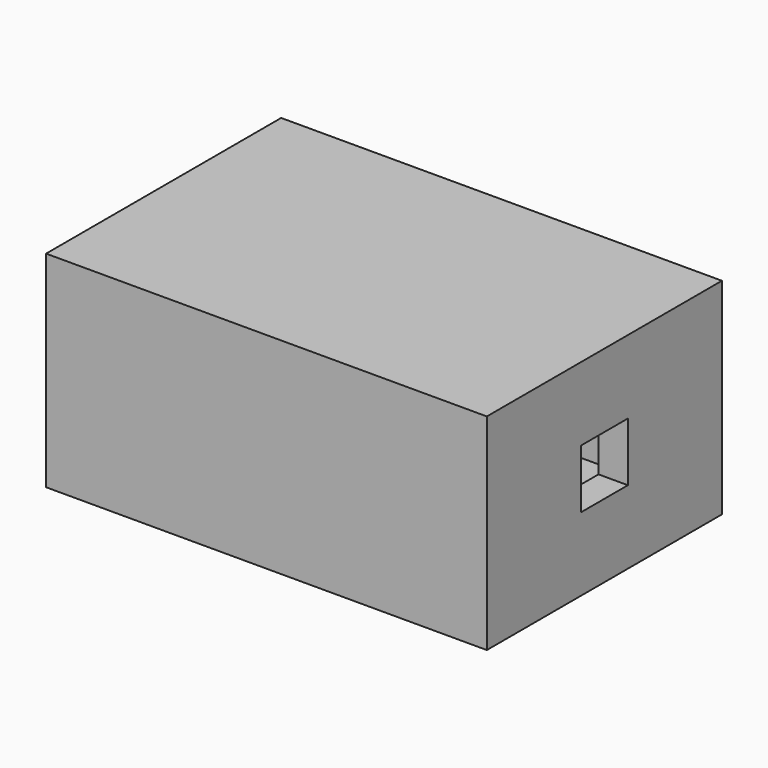
from build123d import *

# Parameters (mm, degrees)
SKETCH133_W     = 15
SKETCH133_H     = 10
PAD068_DEPTH    = 7
SKETCH134_W     = 9.2
SKETCH134_H     = 6.2
POCKET056_DEPTH = 14
SKETCH135_W     = 2
SKETCH135_H     = 2
POCKET057_DEPTH = 5


with BuildPart() as part:
    # Sketch133 → Pad068 (new body)
    with BuildSketch(Plane.XY):
        Rectangle(SKETCH133_W, SKETCH133_H)
    extrude(amount=PAD068_DEPTH)

    # Sketch134 (on Face4 of Pad068) → Pocket056 (cut)
    with BuildSketch(Plane(origin=(-7.5, 0, 0), x_dir=(0, -1, 0), z_dir=(-1, 0, 0))):
        with Locations((0, 3.5)):
            Rectangle(SKETCH134_W, SKETCH134_H)
    extrude(amount=-POCKET056_DEPTH, mode=Mode.SUBTRACT)

    # Sketch135 (on Face3 of Pocket056) → Pocket057 (cut)
    with BuildSketch(Plane.YZ.offset(7.5)):
        with Locations((0, 3.5)):
            Rectangle(SKETCH135_W, SKETCH135_H)
    extrude(amount=-POCKET057_DEPTH, mode=Mode.SUBTRACT)


with BuildPart() as part_1:
    # Body009 placement: moved
    add(part.part.moved(Location((-20, 11, 2))))


solid = part_1.part
